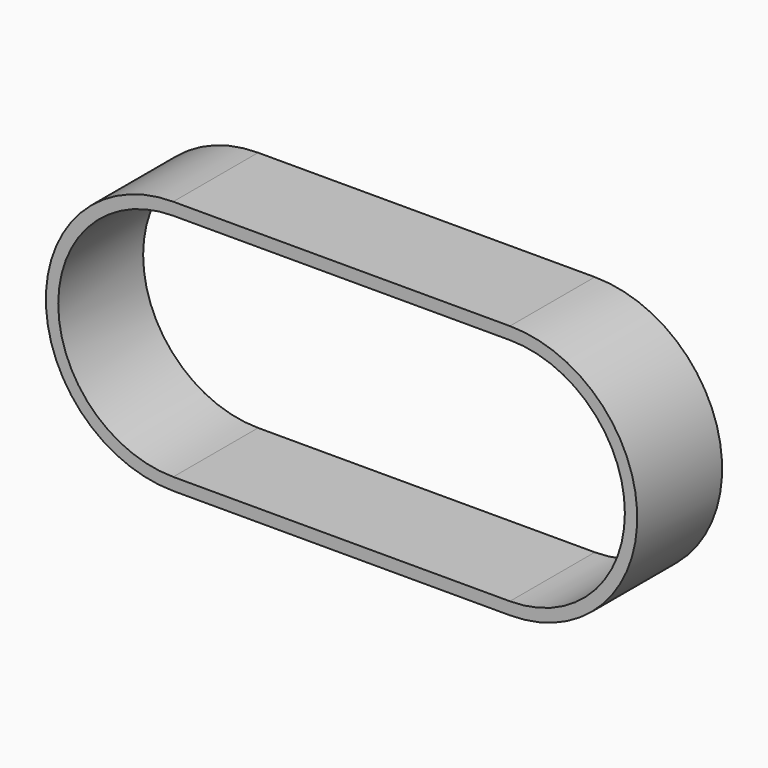
from build123d import *

# Parameters (mm, degrees)
PAD_DEPTH = 7.5


with BuildPart() as part:
    # Sketch → Pad (new body, symmetric)
    with BuildSketch(Plane.XZ):
        with BuildLine():
            ThreePointArc((0, 18), (-18, 0), (0, -18))
            Line((0, -18), (47.6, -18))
            ThreePointArc((47.6, -18), (65.6, 0), (47.6, 18))
            Line((0, 18), (47.6, 18))
        make_face()
        with BuildLine():
            ThreePointArc((0, 16.25), (-16.25, 0), (0, -16.25))
            Line((0, -16.25), (47.6, -16.25))
            ThreePointArc((47.6, -16.25), (63.85, 0), (47.6, 16.25))
            Line((0, 16.25), (47.6, 16.25))
        make_face(mode=Mode.SUBTRACT)
    extrude(amount=PAD_DEPTH, both=True)


solid = part.part
